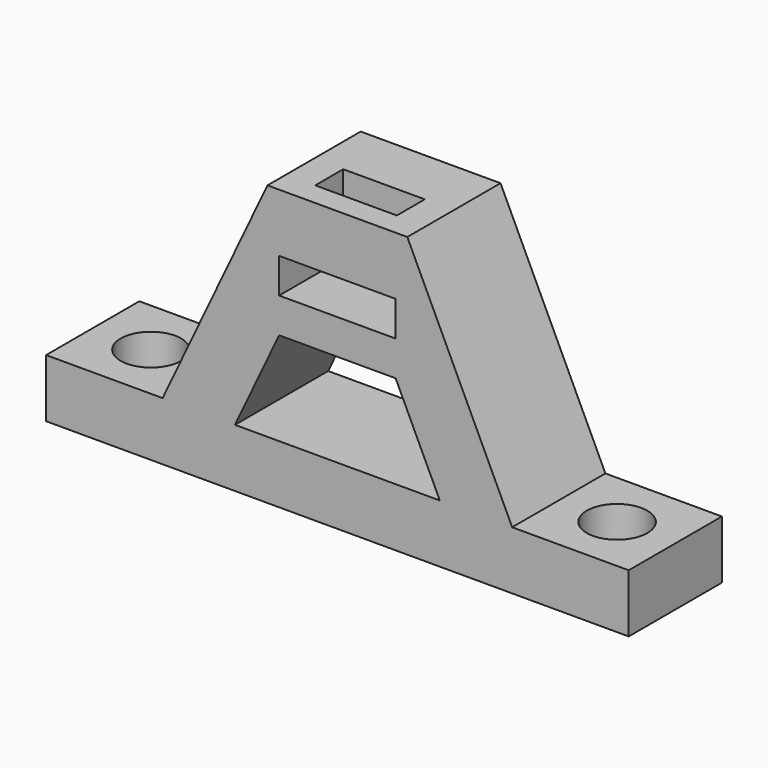
from build123d import *

# Parameters (mm, degrees)
F0_W     = 50
F0_H     = 10
F0_R     = 2.6
F1_DEPTH = 5
F2_W     = 10
F2_H     = 3
F3_DEPTH = 10
F4_W     = 7
F4_H     = 3
F5_DEPTH = 8
F7_DEPTH = 10


with BuildPart() as f1:
    # F0 (on Top) → F1 (new body)
    with BuildSketch(Plane.XY):
        with Locations((20, 0)):
            Rectangle(F0_W, F0_H)
        Circle(F0_R, mode=Mode.SUBTRACT)
        with Locations((40, 0)):
            Circle(F0_R, mode=Mode.SUBTRACT)
    extrude(amount=F1_DEPTH)

    # F2 (on face) → F3 (join)
    with BuildSketch(Plane(origin=(0, 5, 0), x_dir=(-1, 0, 0), z_dir=(0, 1, 0))):
        Polygon((-35, 5), (-5, 5), (-14, 24), (-20, 24), (-26, 24), align=None)
        with Locations((-20, 17.5)):
            Rectangle(F2_W, F2_H, mode=Mode.SUBTRACT)
    extrude(amount=-F3_DEPTH)

    # F4 (on face) → F5 (cut)
    with BuildSketch(Plane.XY.offset(24)):
        with Locations((20, -1.5)):
            Rectangle(F4_W, F4_H)
    extrude(amount=-F5_DEPTH, mode=Mode.SUBTRACT)

    # F6 (on face) → F7 (cut, through all)
    with BuildSketch(Plane(origin=(0, 5, 0), x_dir=(-1, 0, 0), z_dir=(0, 1, 0))):
        Polygon((-15, 13), (-25, 13), (-28.789474, 5), (-11.210526, 5), align=None)
    extrude(amount=-F7_DEPTH, mode=Mode.SUBTRACT)


solid = f1.part
